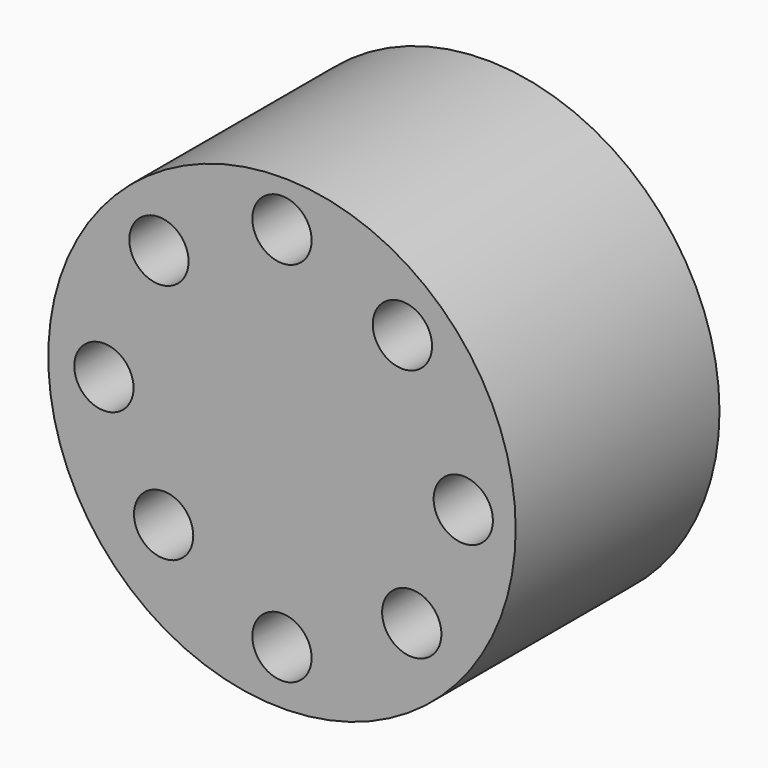
from build123d import *

# Parameters (mm, degrees)
F0_R     = 76.2
F0_R_2   = 9.661703
F0_R_3   = 9.6617
F1_DEPTH = 83.058


with BuildPart() as f1:
    # F0 (on Front) → F1 (new body)
    with BuildSketch(Plane.XZ):
        Circle(F0_R)
        with Locations((-38.585637, -36.113098)):
            Circle(F0_R_2, mode=Mode.SUBTRACT)
        with Locations((0, -58.628336)):
            Circle(F0_R_2, mode=Mode.SUBTRACT)
        with Locations((42.316571, -38.02117)):
            Circle(F0_R_2, mode=Mode.SUBTRACT)
        with Locations((-58.047961, 0)):
            Circle(F0_R_3, mode=Mode.SUBTRACT)
        with Locations((-40.112093, 42.117812)):
            Circle(F0_R_2, mode=Mode.SUBTRACT)
        with Locations((59.107598, 0)):
            Circle(F0_R_2, mode=Mode.SUBTRACT)
        with Locations((0, 61.198518)):
            Circle(F0_R_2, mode=Mode.SUBTRACT)
        with Locations((39.263658, 43.644268)):
            Circle(F0_R_2, mode=Mode.SUBTRACT)
    extrude(amount=F1_DEPTH)


solid = f1.part
